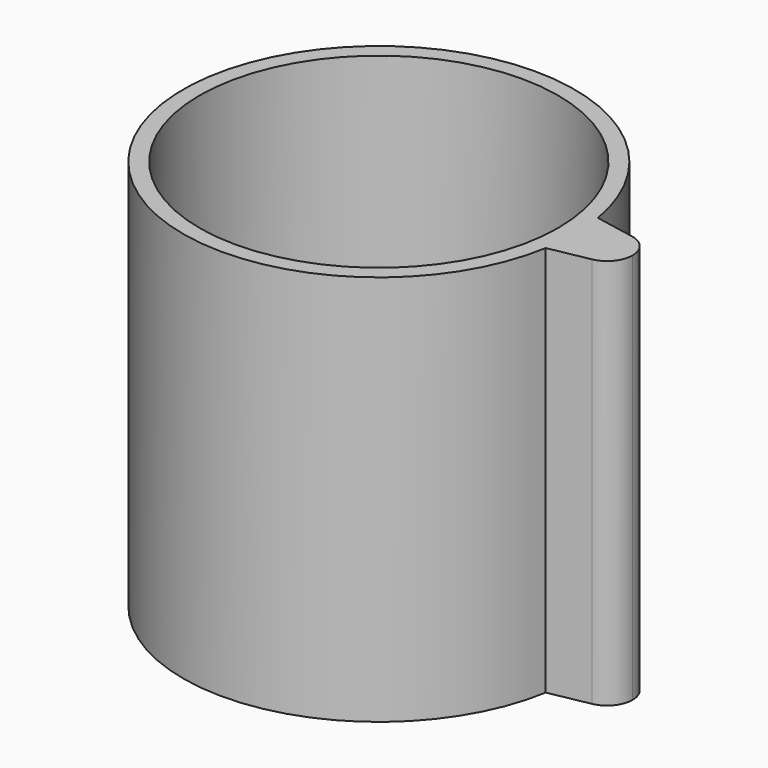
from build123d import *

# Parameters (mm, degrees)
F0_R     = 34.925
F1_DEPTH = 38.1
F2_DEPTH = 38.1
F4_DEPTH = 25.4


with BuildPart() as f1:
    # F0 (on Top) → F1 (new body, symmetric)
    with BuildSketch(Plane.XY):
        with BuildLine():
            ThreePointArc((37.567107, -6.35), (37.966543, -3.186161), (38.1, 0))
            ThreePointArc((38.1, 0), (37.966543, 3.186161), (37.567107, 6.35))
            ThreePointArc((37.567107, 6.35), (-38.1, 0), (37.567107, -6.35))
        make_face()
        Circle(F0_R, mode=Mode.SUBTRACT)
    extrude(amount=F1_DEPTH, both=True)

    # F0 (on Top) → F2 (join, symmetric)
    with BuildSketch(Plane.XY):
        with BuildLine():
            ThreePointArc((37.567107, 6.35), (37.966543, 3.186161), (38.1, 0))
            ThreePointArc((38.1, 0), (37.966543, -3.186161), (37.567107, -6.35))
            Line((37.567107, -6.35), (45.374916, -4.865875))
            ThreePointArc((45.374916, -4.865875), (39.497, 0), (45.374916, 4.865875))
            Line((45.374916, 4.865875), (37.567107, 6.35))
        make_face()
        with BuildLine():
            ThreePointArc((49.403, 0), (48.265319, 3.158409), (45.374916, 4.865875))
            ThreePointArc((45.374916, 4.865875), (39.497, 0), (45.374916, -4.865875))
            ThreePointArc((45.374916, -4.865875), (48.265319, -3.158409), (49.403, 0))
        make_face()
    extrude(amount=F2_DEPTH, both=True)

    # F3 (on Top) → F4 (cut)
    with BuildSketch(Plane.XY):
        with BuildLine():
            Line((-42.947944, 0), (39.505817, 0))
            ThreePointArc((39.505817, 0), (41.325165, 3.794629), (45.400634, 4.843333))
            Line((45.400634, 4.843333), (38.253166, 6.174064))
            Line((38.253166, 6.174064), (38.253166, 40.875405))
            Line((38.253166, 40.875405), (-42.947944, 40.875405))
            Line((-42.947944, 40.875405), (-42.947944, 0))
        make_face()
    extrude(amount=-F4_DEPTH, mode=Mode.SUBTRACT)


solid = f1.part
